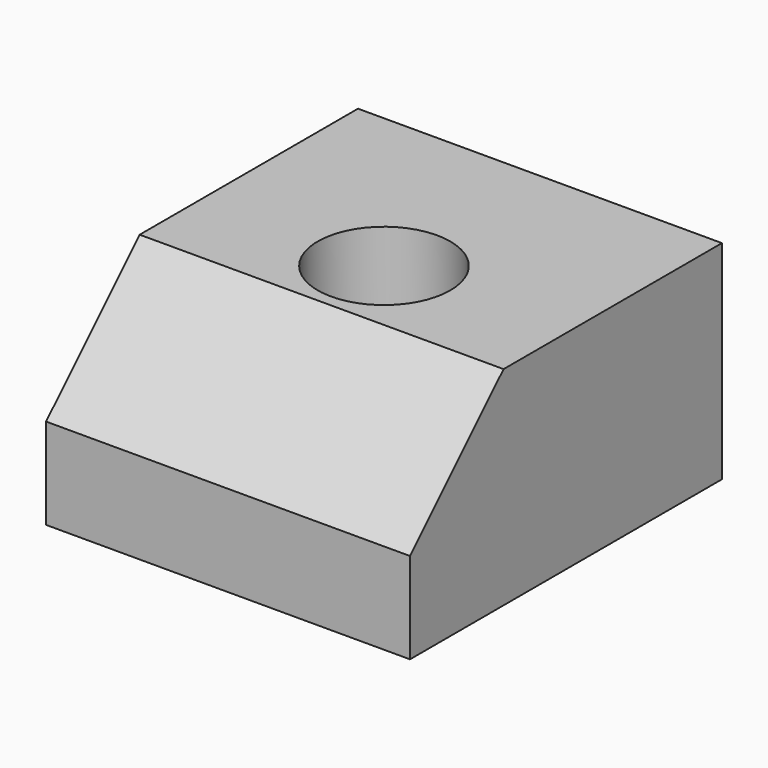
from build123d import *

# Parameters (mm, degrees)
SKETCH_W        = 14
SKETCH_H        = 15
PAD_DEPTH       = 8
SKETCH001_R     = 1.5
POCKET_DEPTH    = 8.001
SKETCH002_R     = 2.55
POCKET001_DEPTH = 5
CHAMFER_SIZE    = 4.5


with BuildPart() as part:
    # Sketch → Pad (new body)
    with BuildSketch(Plane.XY):
        with Locations((7, 7.5)):
            Rectangle(SKETCH_W, SKETCH_H)
    extrude(amount=PAD_DEPTH)

    # Sketch001 (on Face5 of Pad) → Pocket (cut, through all)
    with BuildSketch(Plane(origin=(0, 0, 0), x_dir=(1, 0, 0), z_dir=(0, 0, -1))):
        with Locations((7, -7.5)):
            Circle(SKETCH001_R)
    extrude(amount=-POCKET_DEPTH, mode=Mode.SUBTRACT)

    # Sketch002 (on Face5 of Pocket) → Pocket001 (cut)
    with BuildSketch(Plane.XY.offset(8)):
        with Locations((7, 7.5)):
            Circle(SKETCH002_R)
    extrude(amount=-POCKET001_DEPTH, mode=Mode.SUBTRACT)

    # Chamfer
    chamfer_edges = [part.edges().sort_by_distance(p)[0] for p in [
        (7, 0, 8),
    ]]
    chamfer(chamfer_edges, length=CHAMFER_SIZE)


solid = part.part
